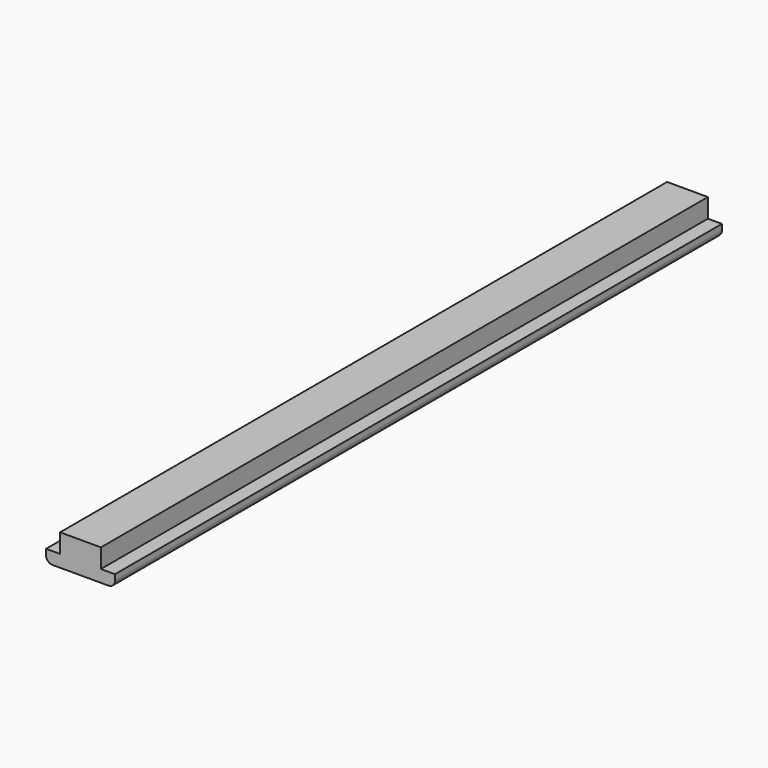
from build123d import *

# Parameters (mm, degrees)
F1_DEPTH = 188.9125


with BuildPart() as f1:
    # F0 (on Front) → F1 (new body, symmetric)
    with BuildSketch(Plane.XZ):
        with BuildLine():
            ThreePointArc((-17.145, 0), (-16.215064, -2.245064), (-13.97, -3.175))
            Line((-13.97, -3.175), (13.97, -3.175))
            ThreePointArc((13.97, -3.175), (16.215064, -2.245064), (17.145, 0))
            Line((17.145, 0), (17.145, 2.887837))
            Line((17.145, 2.887837), (10.16, 2.887837))
            Line((10.16, 2.887837), (10.16, 12.3825))
            Line((10.16, 12.3825), (-10.16, 12.3825))
            Line((-10.16, 12.3825), (-10.16, 2.887837))
            Line((-10.16, 2.887837), (-17.145, 2.887837))
            Line((-17.145, 2.887837), (-17.145, 0))
        make_face()
    extrude(amount=F1_DEPTH, both=True)


solid = f1.part
